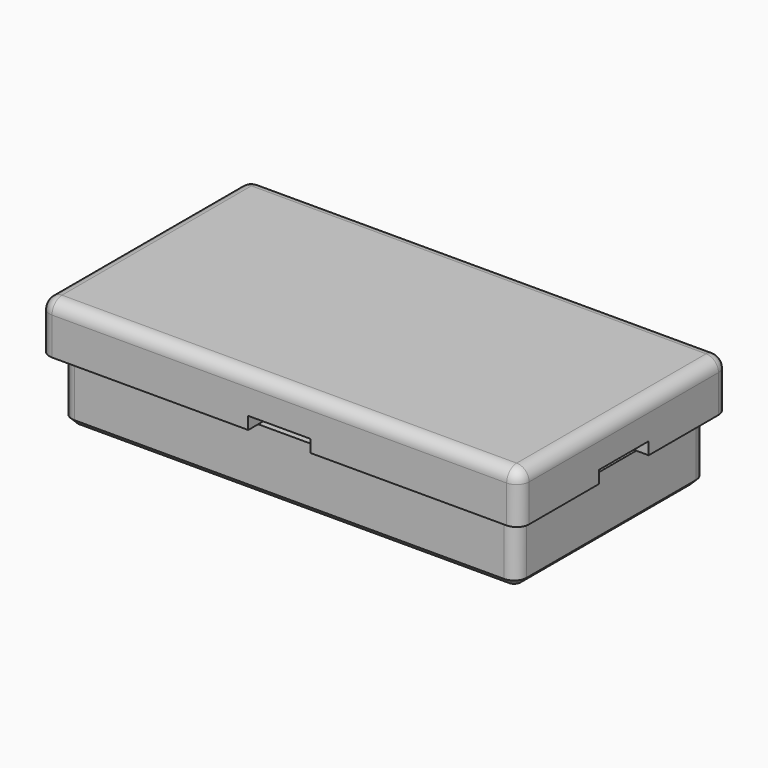
from build123d import *

# Parameters (mm, degrees)
SKETCH025_W       = 36.5
SKETCH025_H       = 19
PAD016_DEPTH      = 3
THICKNESS004_T    = 1
SKETCH026_W       = 36.5
SKETCH026_H       = 19
SKETCH026_W_2     = 34.5
SKETCH026_H_2     = 18
PAD017_DEPTH      = 3
PAD017_DEPTH_BACK = 5
FILLET005_R       = 1
POCKET007_DEPTH   = 1
CHAMFER002_SIZE   = 0.49


with BuildPart() as part:
    # Sketch025 → Pad016 (new body)
    with BuildSketch(Plane.XY):
        Rectangle(SKETCH025_W, SKETCH025_H)
    extrude(amount=PAD016_DEPTH)

    # Thickness004
    thickness004_openings = [part.faces().sort_by_distance(p)[0] for p in [
        (0, 0, 0),
    ]]
    offset(amount=THICKNESS004_T, openings=thickness004_openings)

    # Sketch026 → Pad017 (join, two sides)
    with BuildSketch(Plane.XY) as pad017_sk:
        Rectangle(SKETCH026_W, SKETCH026_H)
        Rectangle(SKETCH026_W_2, SKETCH026_H_2, mode=Mode.SUBTRACT)
    extrude(amount=PAD017_DEPTH)
    extrude(pad017_sk.sketch, amount=-PAD017_DEPTH_BACK)

    # Fillet005
    fillet005_edges = [part.edges().sort_by_distance(p)[0] for p in [
        (18.25, -9.5, -2.5),
        (18.25, 9.5, -2.5),
        (-18.25, 9.5, -2.5),
        (-18.25, -9.5, -2.5),
        (0, -9, 3),
        (17.25, 0, 3),
        (0, 9, 3),
        (-17.25, 0, 3),
    ]]
    fillet(fillet005_edges, radius=FILLET005_R)

    # Sketch031 → Pocket007 (cut)
    with BuildSketch(Plane.XY):
        Polygon((-28.138837, 2.5), (-2.5, 2.5), (-2.5, 15.913807), (2.5, 15.913807), (2.5, 2.5), (28.138837, 2.5), (28.138837, -2.5), (2.5, -2.5), (2.5, -15.913807), (-2.5, -15.913807), (-2.5, -2.5), (-28.138837, -2.5), align=None)
    extrude(amount=POCKET007_DEPTH, mode=Mode.SUBTRACT)

    # Chamfer002
    chamfer002_edges = [part.edges().sort_by_distance(p)[0] for p in [
        (-18.25, 0, -5),
        (18.25, 0, -5),
    ]]
    chamfer(chamfer002_edges, length=CHAMFER002_SIZE)


with BuildPart() as part_1:
    # Body006 placement: moved
    add(part.part.moved(Location((0, 0, 50))))


solid = part_1.part
